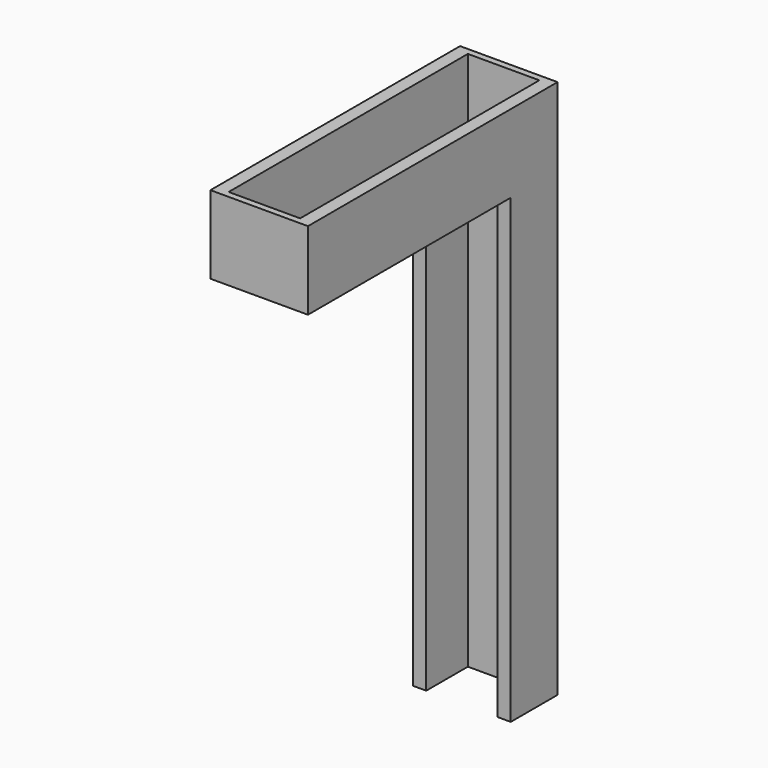
from build123d import *

# Parameters (mm, degrees)
F0_W     = 95.25
F0_H     = 304.8
F0_W_2   = 69.85
F0_H_2   = 292.1
F1_DEPTH = 69.85
F2_DEPTH = 6.35
F3_W     = 69.85
F3_H     = 76.2
F4_DEPTH = 6.35
F6_DEPTH = 450.85


with BuildPart() as f1:
    # F0 (on Top) → F1 (new body)
    with BuildSketch(Plane.XY):
        Rectangle(F0_W, F0_H)
        Rectangle(F0_W_2, F0_H_2, mode=Mode.SUBTRACT)
    extrude(amount=F1_DEPTH)

    # F0 (on Top) → F2 (join)
    with BuildSketch(Plane.XY):
        Rectangle(F0_W, F0_H)
        Rectangle(F0_W_2, F0_H_2, mode=Mode.SUBTRACT)
        Rectangle(F0_W_2, F0_H_2)
    extrude(amount=-F2_DEPTH)

    # F3 (on face) → F4 (cut)
    with BuildSketch(Plane(origin=(0, 0, -6.35), x_dir=(1, 0, 0), z_dir=(0, 0, -1))):
        with Locations((0, -107.95)):
            Rectangle(F3_W, F3_H)
    extrude(amount=-F4_DEPTH, mode=Mode.SUBTRACT)

    # F5 (on face) → F6 (join)
    with BuildSketch(Plane(origin=(0, 0, -6.35), x_dir=(1, 0, 0), z_dir=(0, 0, -1))):
        Polygon((-47.625, -152.4), (47.625, -152.4), (47.625, -95.25), (34.925, -95.25), (34.925, -146.05), (-34.925, -146.05), (-34.925, -95.25), (-47.625, -95.25), align=None)
    extrude(amount=F6_DEPTH)


solid = f1.part
